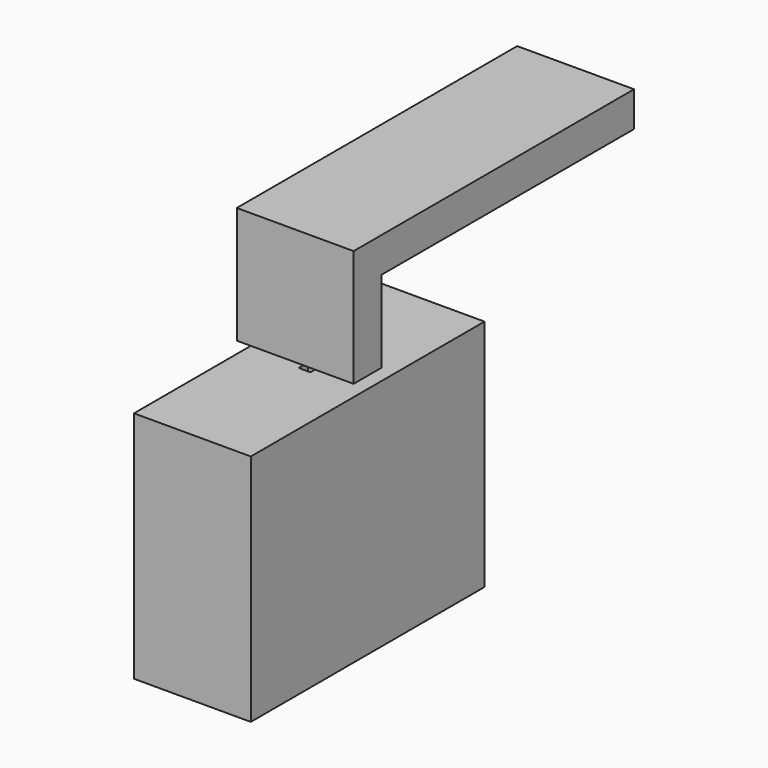
from build123d import *

# Parameters (mm, degrees)
F0_W     = 10
F0_H     = 25
F0_W_2   = 1
F0_H_2   = 1
F1_DEPTH = 20
F2_W     = 27
F2_H     = 3
F3_DEPTH = 10
F4_W     = 1
F4_H     = 1
F5_DEPTH = 9
F6_W     = 1
F6_H     = 1
F7_DEPTH = 29


with BuildPart() as f1:
    # F0 (on Top) → F1 (new body)
    with BuildSketch(Plane.XY):
        with Locations((-16.393679, 3.371647)):
            Rectangle(F0_W, F0_H)
        with Locations((-16.393679, 3.371647)):
            Rectangle(F0_W_2, F0_H_2, mode=Mode.SUBTRACT)
    extrude(amount=F1_DEPTH)


with BuildPart() as f3:
    # F2 (on face) → F3 (new body)
    with BuildSketch(Plane.YZ.offset(-11.393679)):
        Polygon((1.871647, 31), (1.871647, 21), (4.871647, 21), (4.871647, 28), (4.871647, 31), align=None)
        with Locations((18.371647, 29.5)):
            Rectangle(F2_W, F2_H)
    extrude(amount=-F3_DEPTH)

    # F4 (on face) → F5 (cut)
    with BuildSketch(Plane(origin=(0, 0, 21), x_dir=(1, 0, 0), z_dir=(0, 0, -1))):
        with Locations((-16.393679, -3.371647)):
            Rectangle(F4_W, F4_H)
    extrude(amount=-F5_DEPTH, mode=Mode.SUBTRACT)

    # F6 (on face) → F7 (cut)
    with BuildSketch(Plane(origin=(0, 31.871647, 0), x_dir=(-1, 0, 0), z_dir=(0, 1, 0))):
        with Locations((16.393679, 29.5)):
            Rectangle(F6_W, F6_H)
    extrude(amount=-F7_DEPTH, mode=Mode.SUBTRACT)


solid = Compound([f1.part, f3.part])
